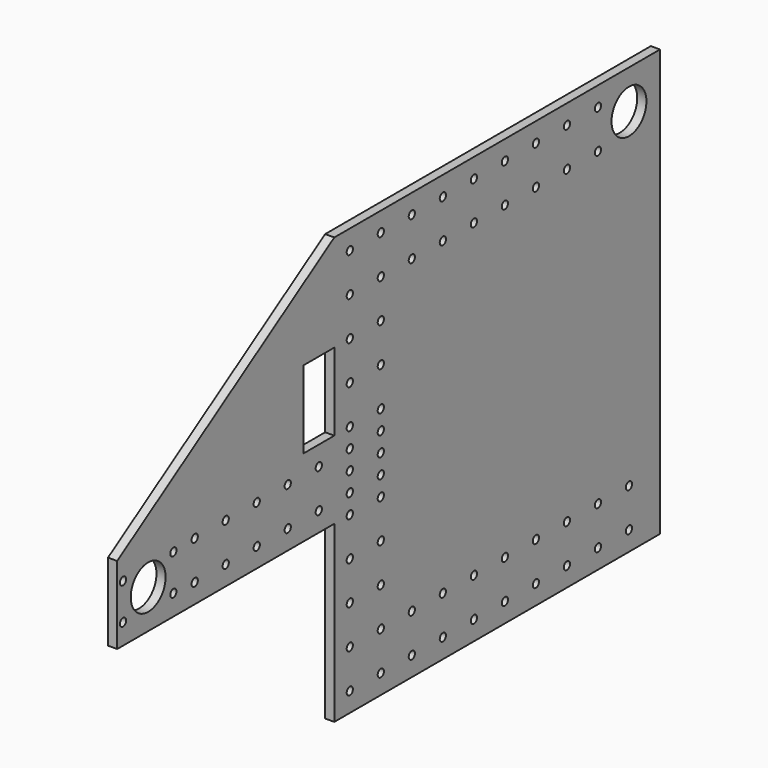
from build123d import *

# Parameters (mm, degrees)
F0_R     = 2.5527
F0_R_2   = 14.2875
F0_W     = 25.4
F0_H     = 50.8
F1_DEPTH = 6


with BuildPart() as f1:
    # F0 (on Right) → F1 (new body)
    with BuildSketch(Plane.YZ):
        Polygon((177.8, 139.7), (0, 25.4), (0, -25.4), (177.8, -25.4), (177.8, -139.7), (444.5, -139.7), (444.5, 139.7), align=None)
        with Locations((190.5, -127)):
            Circle(F0_R, mode=Mode.SUBTRACT)
        with Locations((215.9, -127)):
            Circle(F0_R, mode=Mode.SUBTRACT)
        with Locations((190.5, -101.6)):
            Circle(F0_R, mode=Mode.SUBTRACT)
        with Locations((215.9, -101.6)):
            Circle(F0_R, mode=Mode.SUBTRACT)
        with Locations((190.5, -76.2)):
            Circle(F0_R, mode=Mode.SUBTRACT)
        with Locations((215.9, -76.2)):
            Circle(F0_R, mode=Mode.SUBTRACT)
        with Locations((4.77777, -11.90625)):
            Circle(F0_R, mode=Mode.SUBTRACT)
        with Locations((46.02223, -11.90625)):
            Circle(F0_R, mode=Mode.SUBTRACT)
        with Locations((63.5, -12.7)):
            Circle(F0_R, mode=Mode.SUBTRACT)
        with Locations((88.9, -12.7)):
            Circle(F0_R, mode=Mode.SUBTRACT)
        with Locations((190.5, -50.8)):
            Circle(F0_R, mode=Mode.SUBTRACT)
        with Locations((215.9, -50.8)):
            Circle(F0_R, mode=Mode.SUBTRACT)
        with Locations((114.3, -12.7)):
            Circle(F0_R, mode=Mode.SUBTRACT)
        with Locations((139.7, -12.7)):
            Circle(F0_R, mode=Mode.SUBTRACT)
        with Locations((165.1, -12.7)):
            Circle(F0_R, mode=Mode.SUBTRACT)
        with Locations((190.5, -25.4)):
            Circle(F0_R, mode=Mode.SUBTRACT)
        with Locations((215.9, -25.4)):
            Circle(F0_R, mode=Mode.SUBTRACT)
        with Locations((190.5, -12.7)):
            Circle(F0_R, mode=Mode.SUBTRACT)
        with Locations((215.9, -12.7)):
            Circle(F0_R, mode=Mode.SUBTRACT)
        with Locations((241.3, -127)):
            Circle(F0_R, mode=Mode.SUBTRACT)
        with Locations((266.7, -127)):
            Circle(F0_R, mode=Mode.SUBTRACT)
        with Locations((292.1, -127)):
            Circle(F0_R, mode=Mode.SUBTRACT)
        with Locations((317.5, -127)):
            Circle(F0_R, mode=Mode.SUBTRACT)
        with Locations((241.3, -101.6)):
            Circle(F0_R, mode=Mode.SUBTRACT)
        with Locations((266.7, -101.6)):
            Circle(F0_R, mode=Mode.SUBTRACT)
        with Locations((292.1, -101.6)):
            Circle(F0_R, mode=Mode.SUBTRACT)
        with Locations((317.5, -101.6)):
            Circle(F0_R, mode=Mode.SUBTRACT)
        with Locations((342.9, -127)):
            Circle(F0_R, mode=Mode.SUBTRACT)
        with Locations((368.3, -127)):
            Circle(F0_R, mode=Mode.SUBTRACT)
        with Locations((393.7, -127)):
            Circle(F0_R, mode=Mode.SUBTRACT)
        with Locations((419.1, -127)):
            Circle(F0_R, mode=Mode.SUBTRACT)
        with Locations((342.9, -101.6)):
            Circle(F0_R, mode=Mode.SUBTRACT)
        with Locations((368.3, -101.6)):
            Circle(F0_R, mode=Mode.SUBTRACT)
        with Locations((393.7, -101.6)):
            Circle(F0_R, mode=Mode.SUBTRACT)
        with Locations((419.1, -101.6)):
            Circle(F0_R, mode=Mode.SUBTRACT)
        with Locations((25.4, 0)):
            Circle(F0_R_2, mode=Mode.SUBTRACT)
        with Locations((4.77777, 11.90625)):
            Circle(F0_R, mode=Mode.SUBTRACT)
        with Locations((46.02223, 11.90625)):
            Circle(F0_R, mode=Mode.SUBTRACT)
        with Locations((63.5, 12.7)):
            Circle(F0_R, mode=Mode.SUBTRACT)
        with Locations((88.9, 12.7)):
            Circle(F0_R, mode=Mode.SUBTRACT)
        with Locations((114.3, 12.7)):
            Circle(F0_R, mode=Mode.SUBTRACT)
        with Locations((139.7, 12.7)):
            Circle(F0_R, mode=Mode.SUBTRACT)
        with Locations((165.1, 12.7)):
            Circle(F0_R, mode=Mode.SUBTRACT)
        with Locations((190.5, 0)):
            Circle(F0_R, mode=Mode.SUBTRACT)
        with Locations((190.5, 12.7)):
            Circle(F0_R, mode=Mode.SUBTRACT)
        with Locations((215.9, 0)):
            Circle(F0_R, mode=Mode.SUBTRACT)
        with Locations((215.9, 12.7)):
            Circle(F0_R, mode=Mode.SUBTRACT)
        with Locations((190.5, 25.4)):
            Circle(F0_R, mode=Mode.SUBTRACT)
        with Locations((215.9, 25.4)):
            Circle(F0_R, mode=Mode.SUBTRACT)
        with Locations((165.1, 50.8)):
            Rectangle(F0_W, F0_H, mode=Mode.SUBTRACT)
        with Locations((190.5, 50.8)):
            Circle(F0_R, mode=Mode.SUBTRACT)
        with Locations((215.9, 50.8)):
            Circle(F0_R, mode=Mode.SUBTRACT)
        with Locations((190.5, 76.2)):
            Circle(F0_R, mode=Mode.SUBTRACT)
        with Locations((215.9, 76.2)):
            Circle(F0_R, mode=Mode.SUBTRACT)
        with Locations((190.5, 101.6)):
            Circle(F0_R, mode=Mode.SUBTRACT)
        with Locations((215.9, 101.6)):
            Circle(F0_R, mode=Mode.SUBTRACT)
        with Locations((190.5, 127)):
            Circle(F0_R, mode=Mode.SUBTRACT)
        with Locations((215.9, 127)):
            Circle(F0_R, mode=Mode.SUBTRACT)
        with Locations((241.3, 101.6)):
            Circle(F0_R, mode=Mode.SUBTRACT)
        with Locations((266.7, 101.6)):
            Circle(F0_R, mode=Mode.SUBTRACT)
        with Locations((292.1, 101.6)):
            Circle(F0_R, mode=Mode.SUBTRACT)
        with Locations((317.5, 101.6)):
            Circle(F0_R, mode=Mode.SUBTRACT)
        with Locations((241.3, 127)):
            Circle(F0_R, mode=Mode.SUBTRACT)
        with Locations((266.7, 127)):
            Circle(F0_R, mode=Mode.SUBTRACT)
        with Locations((292.1, 127)):
            Circle(F0_R, mode=Mode.SUBTRACT)
        with Locations((317.5, 127)):
            Circle(F0_R, mode=Mode.SUBTRACT)
        with Locations((342.9, 101.6)):
            Circle(F0_R, mode=Mode.SUBTRACT)
        with Locations((368.3, 101.6)):
            Circle(F0_R, mode=Mode.SUBTRACT)
        with Locations((393.7, 101.6)):
            Circle(F0_R, mode=Mode.SUBTRACT)
        with Locations((342.9, 127)):
            Circle(F0_R, mode=Mode.SUBTRACT)
        with Locations((368.3, 127)):
            Circle(F0_R, mode=Mode.SUBTRACT)
        with Locations((419.1, 114.3)):
            Circle(F0_R_2, mode=Mode.SUBTRACT)
        with Locations((393.7, 127)):
            Circle(F0_R, mode=Mode.SUBTRACT)
    extrude(amount=F1_DEPTH)


solid = f1.part
